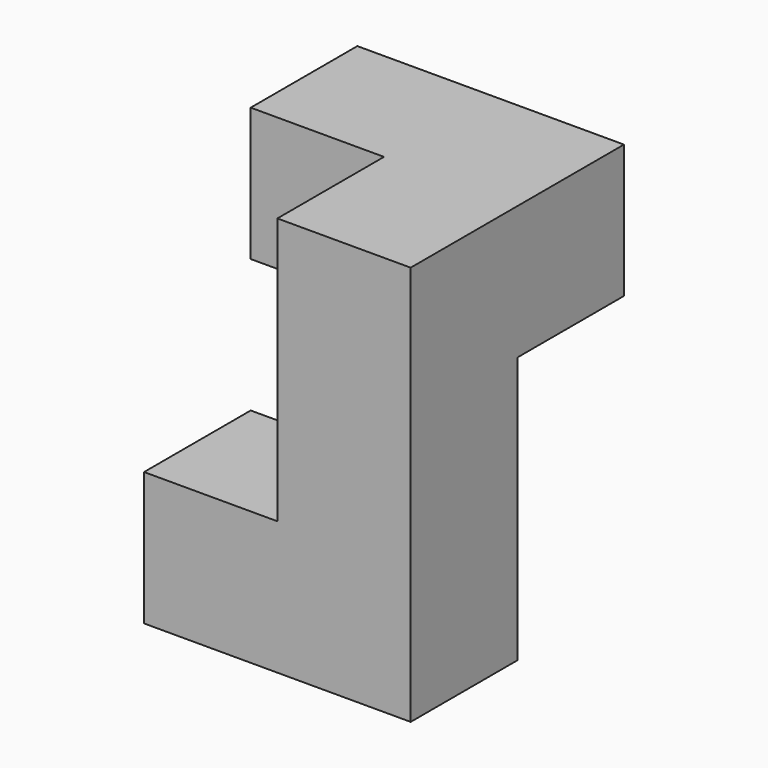
from build123d import *

# Parameters (mm, degrees)
F0_W     = 19.05
F0_H     = 19.05
F1_DEPTH = 57.15
F2_W     = 19.05
F2_H     = 19.05
F3_DEPTH = 19.05
F4_W     = 19.05
F4_H     = 19.05
F5_DEPTH = 19.05
F6_W     = 19.05
F6_H     = 19.05
F7_DEPTH = 19.05


with BuildPart() as f1:
    # F0 (on Top) → F1 (new body)
    with BuildSketch(Plane.XY):
        with Locations((-9.525, 9.525)):
            Rectangle(F0_W, F0_H)
    extrude(amount=F1_DEPTH)

    # F2 (on face) → F3 (join)
    with BuildSketch(Plane(origin=(0, 19.05, 0), x_dir=(-1, 0, 0), z_dir=(0, 1, 0))):
        with Locations((9.525, 47.625)):
            Rectangle(F2_W, F2_H)
    extrude(amount=F3_DEPTH)

    # F4 (on face) → F5 (join)
    with BuildSketch(Plane(origin=(-19.05, 0, 0), x_dir=(0, -1, 0), z_dir=(-1, 0, 0))):
        with Locations((-28.575, 47.625)):
            Rectangle(F4_W, F4_H)
    extrude(amount=F5_DEPTH)

    # F6 (on face) → F7 (join)
    with BuildSketch(Plane(origin=(-19.05, 0, 0), x_dir=(0, -1, 0), z_dir=(-1, 0, 0))):
        with Locations((-9.525, 9.525)):
            Rectangle(F6_W, F6_H)
    extrude(amount=F7_DEPTH)


solid = f1.part
